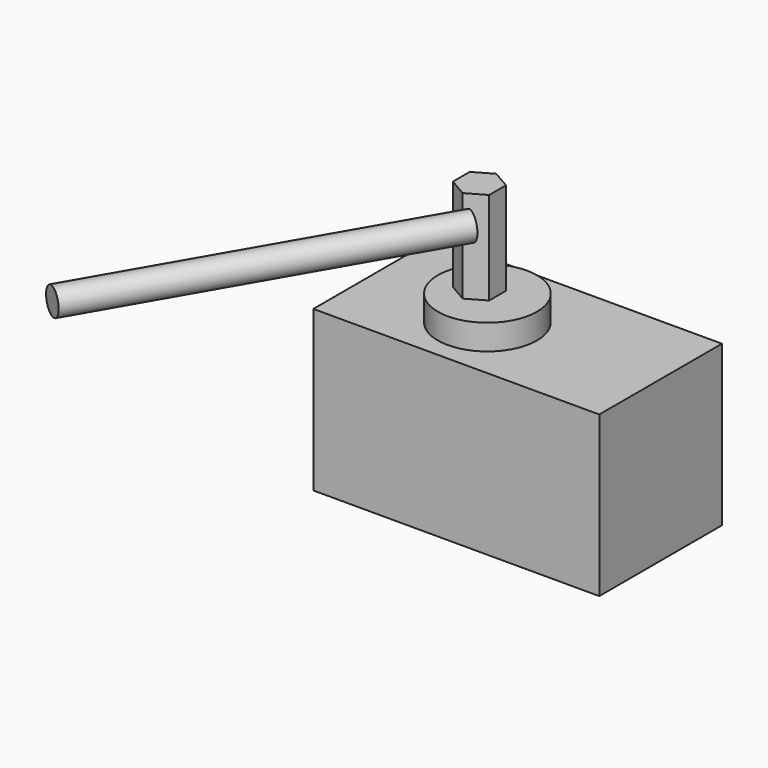
from build123d import *

# Parameters (mm, degrees)
F1_DEPTH = 80.2
F2_R     = 24.849366
F3_DEPTH = 12.7
F5_DEPTH = 46.6
F6_R     = 6.750906
F7_DEPTH = 176.1


with BuildPart() as f1:
    # F0 (on Top) → F1 (new body)
    with BuildSketch(Plane.XY):
        Polygon((44.33316, 64.195812), (-64.956053, 64.195812), (29.79269, -12.702078), (44.33316, -12.702078), align=None)
        Polygon((29.79269, -12.702078), (-64.956053, 64.195812), (-99.054046, 64.195812), (-99.054046, -12.702078), align=None)
    extrude(amount=F1_DEPTH)

    # F2 (on face) → F3 (join)
    with BuildSketch(Plane.XY.offset(80.2)):
        with Locations((-38.762782, 21.042721)):
            Circle(F2_R)
    extrude(amount=F3_DEPTH)

    # F4 (on face) → F5 (join)
    with BuildSketch(Plane.XY.offset(92.9)):
        Polygon((-34.475114, 16.818366), (-34.475114, 27.328422), (-43.57709, 32.58345), (-52.679066, 27.328422), (-52.679066, 16.818366), (-43.57709, 11.563337), align=None)
    extrude(amount=F5_DEPTH)


with BuildPart() as f7:
    # F6 (on face) → F7 (new body)
    with BuildSketch(Plane(origin=(-5.8872, -10.19693, 0), x_dir=(0.866025, -0.5, 0), z_dir=(-0.5, -0.866025, 0))):
        with Locations((-34.414481, 129.495263)):
            Circle(F6_R)
    extrude(amount=F7_DEPTH)


solid = Compound([f1.part, f7.part])
